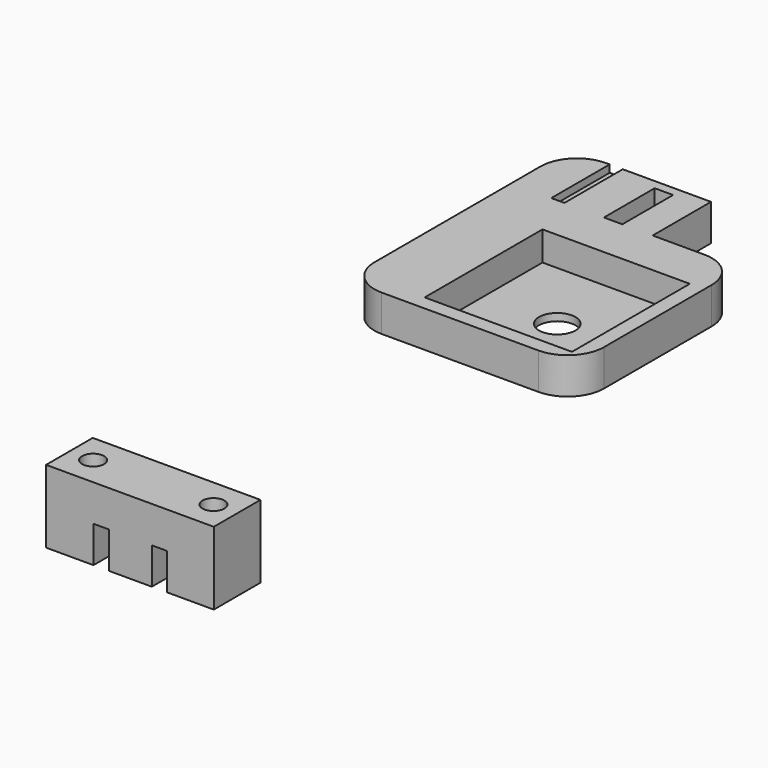
from build123d import *

# Parameters (mm, degrees)
F0_W     = 6.5
F0_H     = 8
F0_R     = 1.5
F1_DEPTH = 10
F2_DEPTH = 5
F3_W     = 20.2
F3_H     = 20.2
F3_W_2   = 2.525257
F3_H_2   = 8.694927
F4_DEPTH = 5
F3_R     = 2.5
F5_DEPTH = 1
F6_W     = 0.9
F6_H     = 0.9
F7_DEPTH = 12
F8_R     = 5


with BuildPart() as f1:
    # F0 (on Top) → F1 (new body)
    with BuildSketch(Plane.XY):
        with Locations((-8.25, 0)):
            Rectangle(F0_W, F0_H)
        with Locations((-8.25, 0)):
            Circle(F0_R, mode=Mode.SUBTRACT)
        Polygon((-2.9, 4), (-5, 4), (-5, -4), (-2.9, -4), (-2.9, -1.1), (-4, -1.1), (-4, 0), (-2.9, 0), (-2.9, 1.1), (-4, 1.1), (-4, 2.2), (-2.9, 2.2), align=None)
        Polygon((5.1, 4), (3, 4), (3, -4), (5.1, -4), (5.1, -1.1), (4, -1.1), (4, 0), (5.1, 0), (5.1, 1.1), (4, 1.1), (4, 2.2), (5.1, 2.2), align=None)
        Polygon((11.5, 4), (5.1, 4), (5.1, 2.2), (4, 2.2), (4, 1.1), (5.1, 1.1), (5.1, 0), (4, 0), (4, -1.1), (5.1, -1.1), (5.1, -4), (11.5, -4), align=None)
        with Locations((8.25, 0)):
            Circle(F0_R, mode=Mode.SUBTRACT)
        Polygon((3, 4), (-2.9, 4), (-2.9, 2.2), (-4, 2.2), (-4, 1.1), (-2.9, 1.1), (-2.9, 0), (-4, 0), (-4, -1.1), (-2.9, -1.1), (-2.9, -4), (3, -4), align=None)
    extrude(amount=F1_DEPTH)

    # F0 (on Top) → F2 (cut)
    with BuildSketch(Plane.XY):
        Polygon((-2.9, 4), (-5, 4), (-5, -4), (-2.9, -4), (-2.9, -1.1), (-4, -1.1), (-4, 0), (-2.9, 0), (-2.9, 1.1), (-4, 1.1), (-4, 2.2), (-2.9, 2.2), align=None)
        Polygon((5.1, 4), (3, 4), (3, -4), (5.1, -4), (5.1, -1.1), (4, -1.1), (4, 0), (5.1, 0), (5.1, 1.1), (4, 1.1), (4, 2.2), (5.1, 2.2), align=None)
    extrude(amount=F2_DEPTH, mode=Mode.SUBTRACT)


with BuildPart() as f4:
    # F3 (on Top) → F4 (new body)
    with BuildSketch(Plane.XY):
        Polygon((0, 85.598824), (0, 95.598824), (-12.1, 95.598824), (-12.1, 85.598824), (-13.9, 85.598824), (-13.9, 95.598824), (-19.385282, 95.598824), (-19.385282, 57.136595), (-12.1, 57.136595), (12.1, 57.136595), (12.1, 85.598824), align=None)
        with Locations((0, 69.236595)):
            Rectangle(F3_W, F3_H, mode=Mode.SUBTRACT)
        with Locations((-5.423652, 89.946287)):
            Rectangle(F3_W_2, F3_H_2, mode=Mode.SUBTRACT)
    extrude(amount=F4_DEPTH)

    # F3 (on Top) → F5 (join)
    with BuildSketch(Plane.XY):
        with Locations((0, 69.236595)):
            Rectangle(F3_W, F3_H)
        with Locations((0, 69.236595)):
            Circle(F3_R, mode=Mode.SUBTRACT)
    extrude(amount=F5_DEPTH)

    # F6 (on face) → F7 (join)
    with BuildSketch(Plane(origin=(0, 95.598824, 0), x_dir=(-1, 0, 0), z_dir=(0, 1, 0))):
        with Locations((13.45, 3.537829)):
            Rectangle(F6_W, F6_H)
        with Locations((13.45, 1.507829)):
            Rectangle(F6_W, F6_H)
    extrude(amount=-F7_DEPTH)

    # F8
    f8_edges = [f4.edges().sort_by_distance(p)[0] for p in [
        (-19.385282, 57.136595, 2.5),
        (12.1, 57.136595, 2.5),
        (12.1, 85.598824, 2.5),
        (-19.385282, 95.598824, 2.5),
    ]]
    fillet(f8_edges, radius=F8_R)


solid = Compound([f1.part, f4.part])
